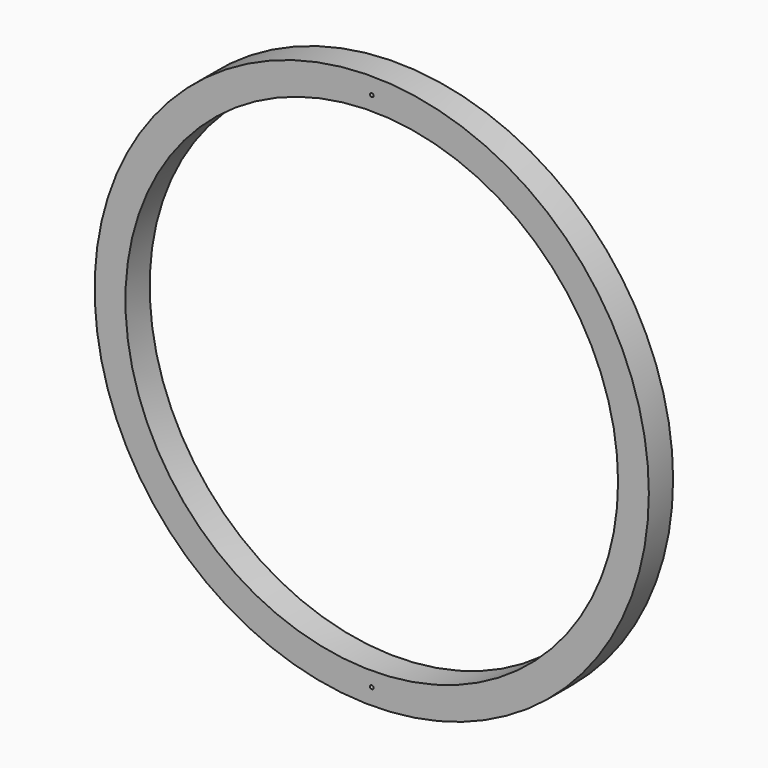
from build123d import *

# Parameters (mm, degrees)
F0_R     = 228.6
F0_R_2   = 1.5
F0_R_3   = 203.2
F1_DEPTH = 5
F2_DEPTH = 25


with BuildPart() as f1:
    # F0 (on Front) → F1 (new body)
    with BuildSketch(Plane.XZ):
        Circle(F0_R)
        with Locations((0, -215.117663)):
            Circle(F0_R_2, mode=Mode.SUBTRACT)
        Circle(F0_R_3, mode=Mode.SUBTRACT)
        with Locations((0, 214.882337)):
            Circle(F0_R_2, mode=Mode.SUBTRACT)
        with Locations((0, -215.117663)):
            Circle(F0_R_2)
    extrude(amount=F1_DEPTH)


with BuildPart() as f2:
    # F0 (on Front) → F2 (new body)
    with BuildSketch(Plane.XZ):
        Circle(F0_R)
        with Locations((0, -215.117663)):
            Circle(F0_R_2, mode=Mode.SUBTRACT)
        Circle(F0_R_3, mode=Mode.SUBTRACT)
        with Locations((0, 214.882337)):
            Circle(F0_R_2, mode=Mode.SUBTRACT)
    extrude(amount=F2_DEPTH)


solid = Compound([f1.part, f2.part])
